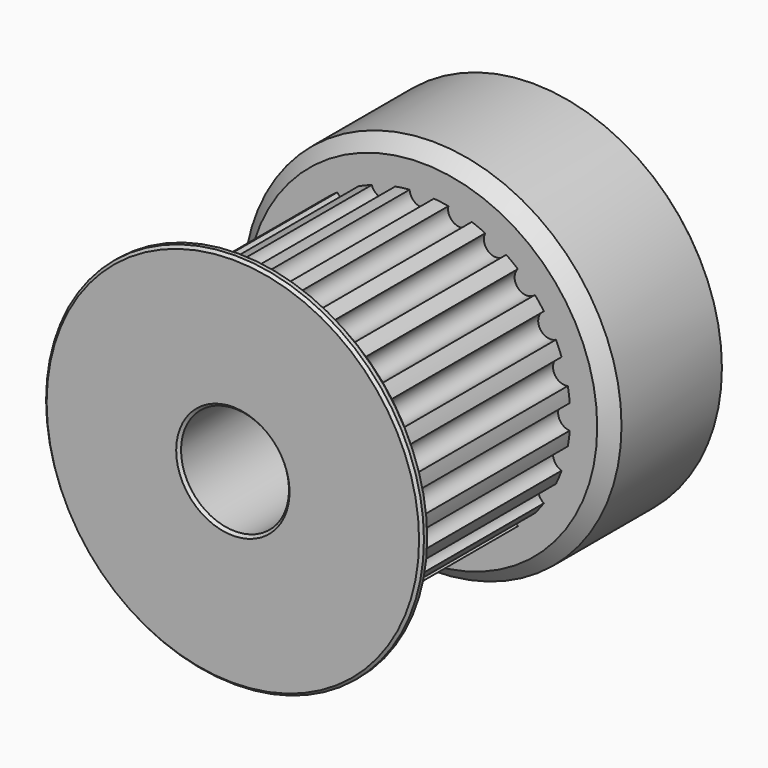
from build123d import *

# Parameters (mm, degrees)
F0_R     = 11
F1_DEPTH = 8
F2_R     = 14
F3_DEPTH = 1.5
F4_R     = 14
F5_DEPTH = 10.5
F6_R     = 4
F7_DEPTH = 28.001
F8_R     = 0.9
F9_DEPTH = 16
F10_SIZE = 1
F11_SIZE = 0.2


with BuildPart() as f1:
    # F0 (on Front) → F1 (new body, symmetric)
    with BuildSketch(Plane.XZ):
        Circle(F0_R)
    extrude(amount=F1_DEPTH, both=True)

    # F2 (on face) → F3 (join)
    with BuildSketch(Plane.XZ.offset(8)):
        Circle(F2_R)
    extrude(amount=F3_DEPTH)

    # F4 (on face) → F5 (join)
    with BuildSketch(Plane(origin=(0, 8, 0), x_dir=(-1, 0, 0), z_dir=(0, 1, 0))):
        Circle(F4_R)
    extrude(amount=F5_DEPTH)

    # F6 (on face) → F7 (cut, through all)
    with BuildSketch(Plane(origin=(0, 18.5, 0), x_dir=(-1, 0, 0), z_dir=(0, 1, 0))):
        Circle(F6_R)
    extrude(amount=-F7_DEPTH, mode=Mode.SUBTRACT)

    # F8 (on face) → F9 (cut, through all)
    with BuildSketch(Plane.XZ.offset(-8)):
        with Locations((0, 11)):
            Circle(F8_R)
        with Locations((-2.8470094961, 10.6251840892)):
            Circle(F8_R)
        with Locations((-5.5, 9.5262794416)):
            Circle(F8_R)
        with Locations((-7.7781745931, 7.7781745931)):
            Circle(F8_R)
        with Locations((-9.5262794416, 5.5)):
            Circle(F8_R)
        with Locations((-10.6251840892, 2.8470094961)):
            Circle(F8_R)
        with Locations((-11, 0)):
            Circle(F8_R)
        with Locations((-10.6251840892, -2.8470094961)):
            Circle(F8_R)
        with Locations((-9.5262794416, -5.5)):
            Circle(F8_R)
        with Locations((-7.7781745931, -7.7781745931)):
            Circle(F8_R)
        with Locations((-5.5, -9.5262794416)):
            Circle(F8_R)
        with Locations((-2.8470094961, -10.6251840892)):
            Circle(F8_R)
        with Locations((0, -11)):
            Circle(F8_R)
        with Locations((2.8470094961, -10.6251840892)):
            Circle(F8_R)
        with Locations((5.5, -9.5262794416)):
            Circle(F8_R)
        with Locations((7.7781745931, -7.7781745931)):
            Circle(F8_R)
        with Locations((9.5262794416, -5.5)):
            Circle(F8_R)
        with Locations((10.6251840892, -2.8470094961)):
            Circle(F8_R)
        with Locations((11, 0)):
            Circle(F8_R)
        with Locations((10.6251840892, 2.8470094961)):
            Circle(F8_R)
        with Locations((9.5262794416, 5.5)):
            Circle(F8_R)
        with Locations((7.7781745931, 7.7781745931)):
            Circle(F8_R)
        with Locations((5.5, 9.5262794416)):
            Circle(F8_R)
        with Locations((2.8470094961, 10.6251840892)):
            Circle(F8_R)
    extrude(amount=F9_DEPTH, mode=Mode.SUBTRACT)

    # F10
    f10_edges = [f1.edges().sort_by_distance(p)[0] for p in [
        (-14, -8, 0),
        (14, 8, 0),
    ]]
    chamfer(f10_edges, length=F10_SIZE)

    # F11
    f11_edges = [f1.edges().sort_by_distance(p)[0] for p in [
        (-14, -9.5, 0),
        (4, -9.5, 0),
        (14, 18.5, 0),
        (4, 18.5, 0),
    ]]
    chamfer(f11_edges, length=F11_SIZE)


solid = f1.part
